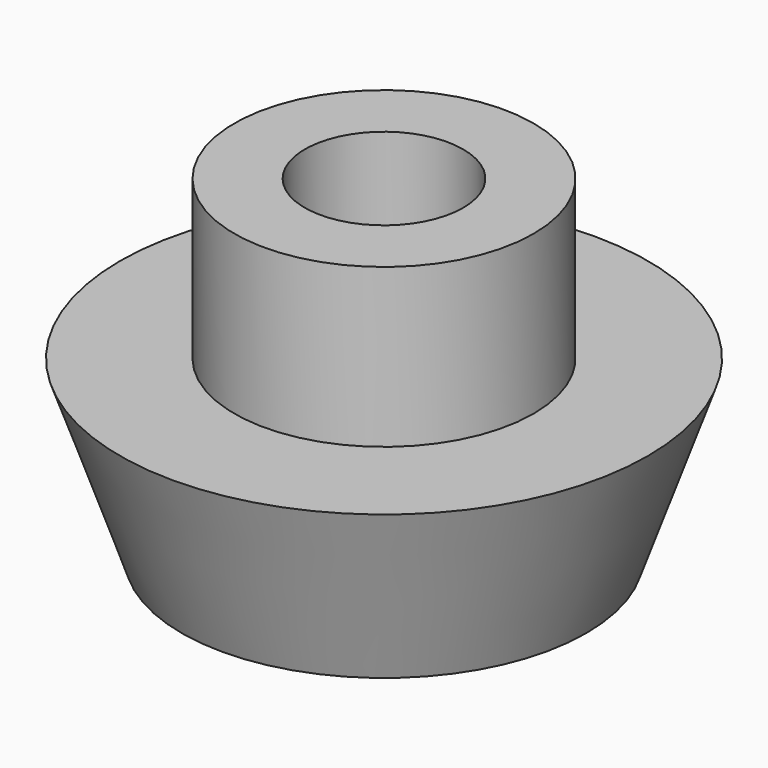
from build123d import *

# Parameters (mm, degrees)
SKETCH_R         = 7.5
PAD_DEPTH        = 5
SKETCH001_R      = 4.25
PAD001_DEPTH     = 4.5
SKETCH002_R      = 2.25
POCKET_DEPTH     = 9.501
CHAMFER_SIZE2    = 3.5
CHAMFER_SIZE     = 2.5
CHAMFER001_SIZE2 = 4.999
CHAMFER001_SIZE  = 1.75


with BuildPart() as part:
    # Sketch → Pad (new body)
    with BuildSketch(Plane.XY):
        Circle(SKETCH_R)
    extrude(amount=PAD_DEPTH)

    # Sketch001 (on Face3 of Pad) → Pad001 (join)
    with BuildSketch(Plane.XY.offset(5)):
        Circle(SKETCH001_R)
    extrude(amount=PAD001_DEPTH)

    # Sketch002 (on Face5 of Pad001) → Pocket (cut, through all)
    with BuildSketch(Plane.XY.offset(9.5)):
        Circle(SKETCH002_R)
    extrude(amount=-POCKET_DEPTH, mode=Mode.SUBTRACT)

    # Chamfer
    chamfer_edges = [part.edges().sort_by_distance(p)[0] for p in [
        (-2.25, 0, 0),
    ]]
    chamfer_side = part.faces().sort_by_distance((-7.287868, 0, 0))[0]
    chamfer(chamfer_edges, length=CHAMFER_SIZE, length2=CHAMFER_SIZE2, reference=chamfer_side)

    # Chamfer001
    chamfer001_edges = [part.edges().sort_by_distance(p)[0] for p in [
        (-7.5, 0, 0),
    ]]
    chamfer001_side = part.faces().sort_by_distance((-4.962132, 0, 0))[0]
    chamfer(chamfer001_edges, length=CHAMFER001_SIZE, length2=CHAMFER001_SIZE2, reference=chamfer001_side)


solid = part.part
